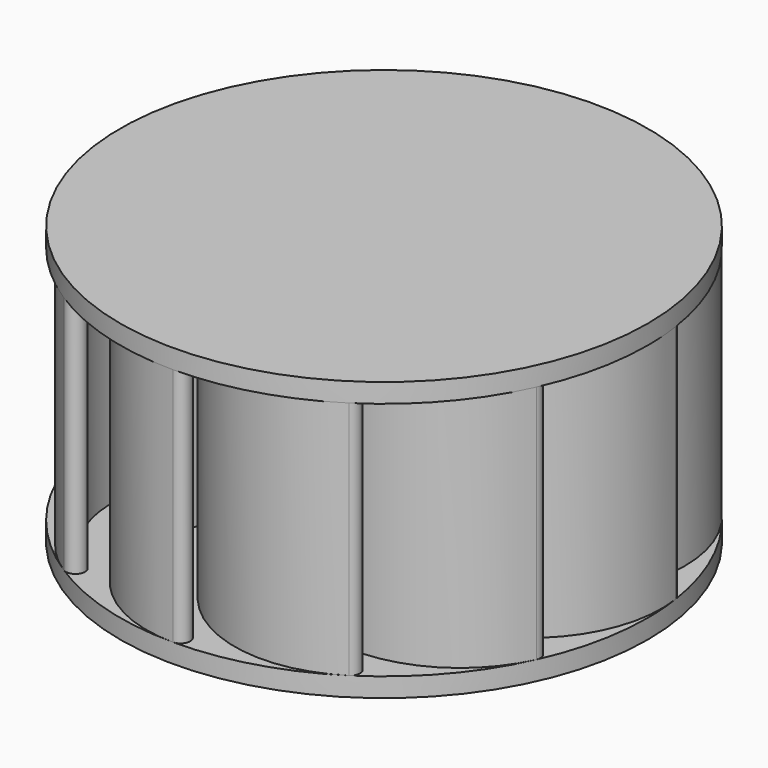
from build123d import *

# Parameters (mm, degrees)
F4_R      = 22
F4_R_2    = 4.025
F5_DEPTH  = 1.6
F6_DEPTH  = 7
F8_SIZE   = 1
F9_DEPTH  = 20
F10_COUNT = 11
F11_START = 21.6
F11_DEPTH = 1.6


with BuildPart() as f5:
    # F4 (on Top) → F5 (new body)
    with BuildSketch(Plane.XY):
        Circle(F4_R)
        Circle(F4_R_2, mode=Mode.SUBTRACT)
        Circle(F4_R_2)
    extrude(amount=F5_DEPTH)

    # F4 (on Top) → F6 (join)
    with BuildSketch(Plane.XY):
        Circle(F4_R_2)
    extrude(amount=-F6_DEPTH)

    # F8
    f8_edges = [f5.edges().sort_by_distance(p)[0] for p in [
        (-4.025, 0, -7),
    ]]
    chamfer(f8_edges, length=F8_SIZE)



with BuildPart() as f9:
    # F7 (on face) → F9 (new body)
    with BuildSketch(Plane.XY.offset(1.6)):
        with BuildLine():
            ThreePointArc((0, -1.6), (0.8, -0.8), (0, 0))
            ThreePointArc((0, 0), (-11, -11), (0, -22))
            ThreePointArc((0, -22), (0.8, -21.2), (0, -20.4))
            ThreePointArc((0, -20.4), (-9.4, -11), (0, -1.6))
        make_face()
    extrude(amount=F9_DEPTH)


with BuildPart() as f5_1:
    add(f5.part)

    add(f9.part)  # F10 merges F9
    # F10: F9 ×11 about axis
    f10_axis = Axis((0, 0, 0), (0, 0, 1))
    for i in range(1, F10_COUNT):
        add(f9.part.rotate(f10_axis, i * 360 / F10_COUNT))

    # F4 (on Top) → F11 (join)
    with BuildSketch(Plane.XY.offset(F11_START)):
        Circle(F4_R)
        Circle(F4_R_2, mode=Mode.SUBTRACT)
        Circle(F4_R_2)
    extrude(amount=F11_DEPTH)


solid = f5_1.part
